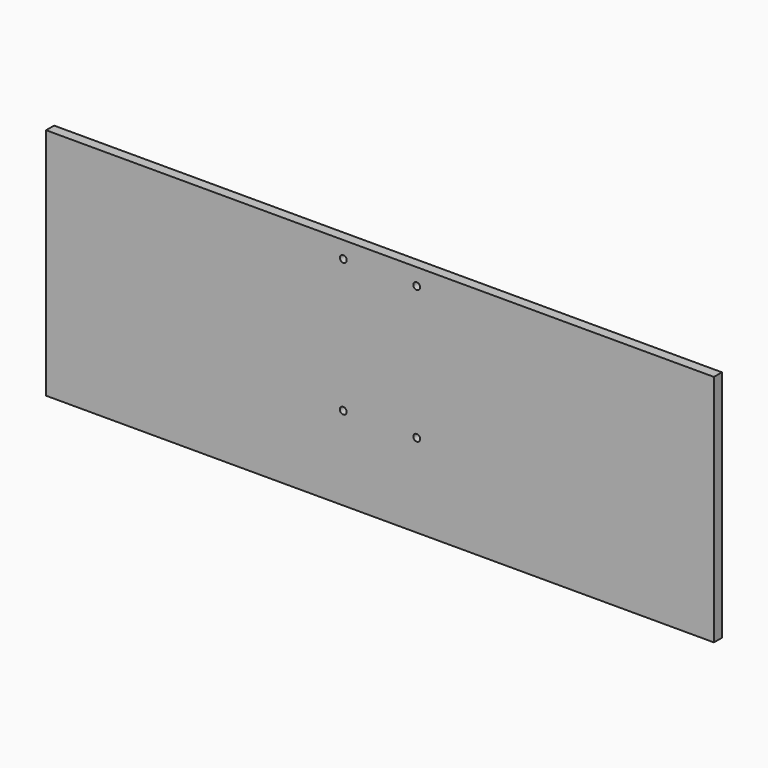
from build123d import *

# Parameters (mm, degrees)
F0_W     = 200
F0_H     = 70
F1_DEPTH = 1.5
F2_R     = 1.025
F3_DEPTH = 3


with BuildPart() as f1:
    # F0 (on Front) → F1 (new body, symmetric)
    with BuildSketch(Plane.XZ):
        with Locations((0, -10)):
            Rectangle(F0_W, F0_H)
    extrude(amount=F1_DEPTH, both=True)

    # F2 (on face) → F3 (cut, through all)
    with BuildSketch(Plane.XZ.offset(1.5)):
        with Locations((-11, 20)):
            Circle(F2_R)
        with Locations((11, 20)):
            Circle(F2_R)
        with Locations((11, -20)):
            Circle(F2_R)
        with Locations((-11, -20)):
            Circle(F2_R)
    extrude(amount=-F3_DEPTH, mode=Mode.SUBTRACT)


solid = f1.part
